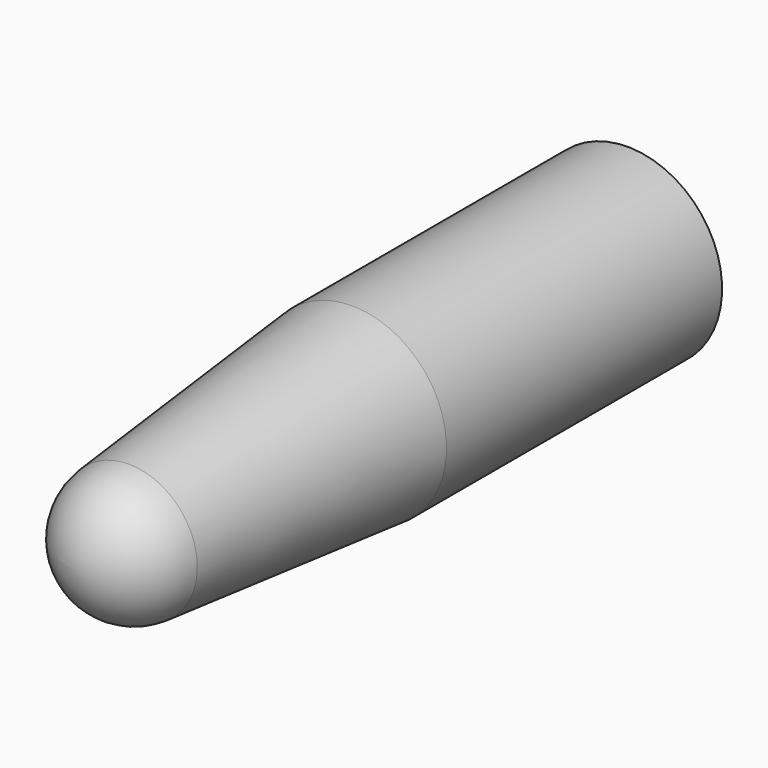
from build123d import *


with BuildPart() as f2:
    # F1 (on Top) → F2 (revolve)
    with BuildSketch(Plane.XY):
        with BuildLine():
            Line((-4.5, -15), (-4.5, 5))
            Line((-4.5, 5), (-5.5, 5))
            Line((-5.5, 5), (-5.5, -15.046632021))
            Line((-5.5, -15.046632021), (-3.9826413841, -31.2807456134))
            ThreePointArc((-3.9826413841, -31.2807456134), (-2.6936047593, -33.865607873), (0, -34.908498913))
            Line((0, -34.908498913), (0, -33.908498913))
            ThreePointArc((0, -33.908498913), (-2.0202035695, -33.126330633), (-2.986981038, -31.1876839383))
            Line((-2.986981038, -31.1876839383), (-4.5, -15))
        make_face()
    revolve(axis=Axis((0, 0, 0), (0, -1, 0)))


solid = f2.part
